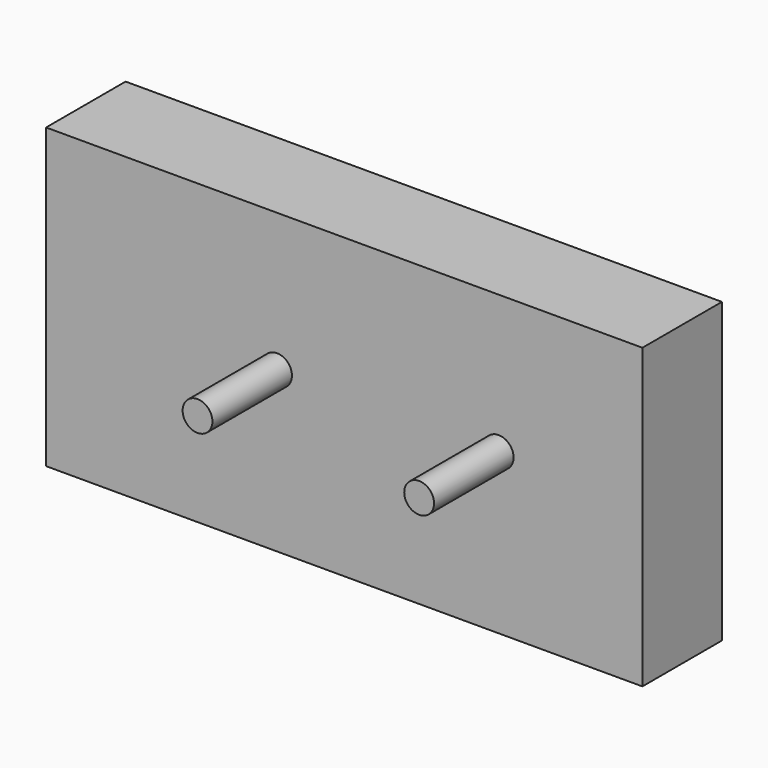
from build123d import *

# Parameters (mm, degrees)
F0_W     = 152.4
F0_H     = 76.2
F1_DEPTH = 25.4
F2_R     = 3.81
F3_DEPTH = 25.4


with BuildPart() as f1:
    # F0 (on Front) → F1 (new body)
    with BuildSketch(Plane.XZ):
        with Locations((76.2, 38.1)):
            Rectangle(F0_W, F0_H)
    extrude(amount=F1_DEPTH)

    # F2 (on face) → F3 (join)
    with BuildSketch(Plane.XZ.offset(25.4)):
        with Locations((59.020881, 40.802326)):
            Circle(F2_R)
        with BuildLine():
            ThreePointArc((119.472881, 40.802326), (115.662881, 44.612326), (111.852881, 40.802326))
            ThreePointArc((111.852881, 40.802326), (115.662881, 36.992326), (119.472881, 40.802326))
        make_face()
    extrude(amount=F3_DEPTH)


solid = f1.part
